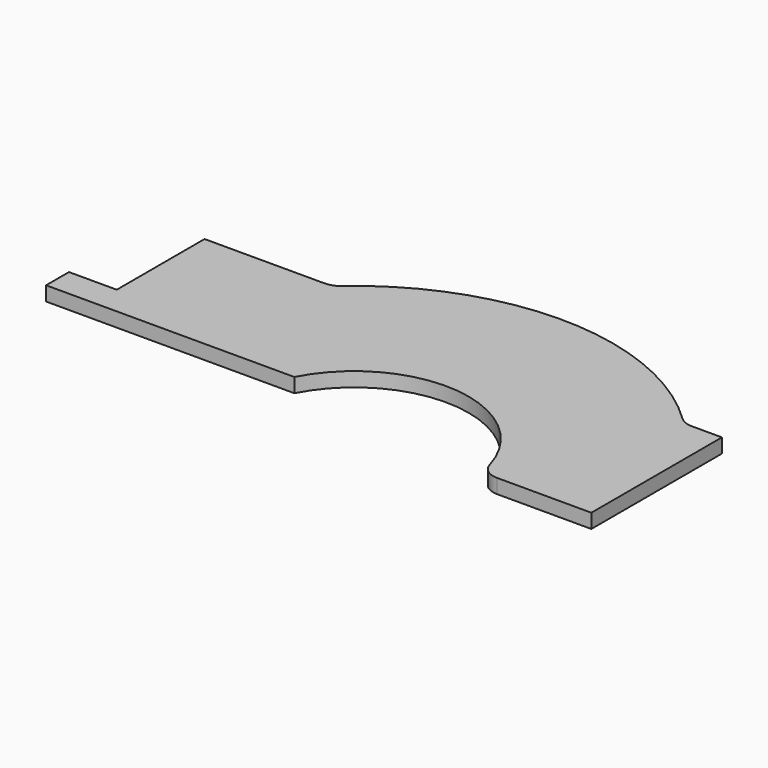
from build123d import *

# Parameters (mm, degrees)
F1_DEPTH = 150
F2_W     = 500.5
F2_H     = 300
F3_DEPTH = 150


with BuildPart() as f1:
    # F0 (on Top) → F1 (new body)
    with BuildSketch(Plane.XY):
        with BuildLine():
            Line((0, 1450), (0, 0))
            Line((0, 0), (2100.5, 0))
            ThreePointArc((2100.5, 0), (3283.4866560837, 644.3683890431), (4320.2302259558, -215.7657979293))
            ThreePointArc((4320.2302259558, -215.7657979293), (4392.2008354062, -319.9267951062), (4512.2983799567, -360))
            Line((4512.2983799567, -360), (5500.5, -360))
            Line((5500.5, -360), (5500.5, 1350))
            Line((5500.5, 1350), (5182.5991868116, 1350))
            ThreePointArc((5182.5991868116, 1350), (5107.9797528941, 1364.4415453777), (5044.1365183863, 1405.6805991817))
            ThreePointArc((5044.1365183863, 1405.6805991817), (3236.5466832995, 2159.5210427626), (1392.8364788773, 1498.9235038651))
            ThreePointArc((1392.8364788773, 1498.9235038651), (1331.6258487254, 1462.6285845651), (1261.5931330671, 1450))
            Line((1261.5931330671, 1450), (0, 1450))
        make_face()
    extrude(amount=F1_DEPTH)

    # F2 (on face) → F3 (join, through all)
    with BuildSketch(Plane.XY.offset(150)):
        with Locations((-250.25, 150)):
            Rectangle(F2_W, F2_H)
    extrude(amount=-F3_DEPTH)


solid = f1.part
